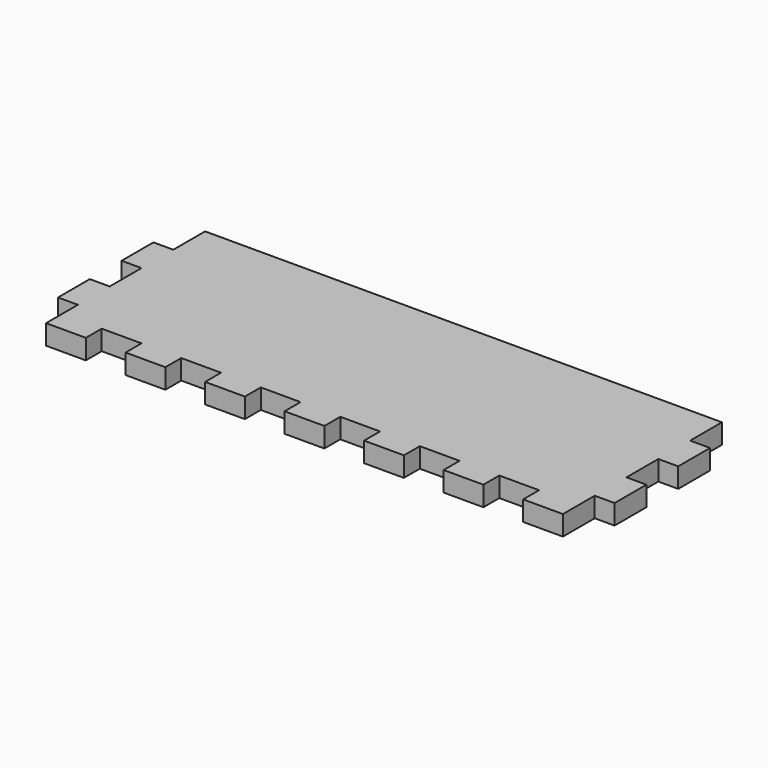
from build123d import *

# Parameters (mm, degrees)
F1_DEPTH = 6.35


with BuildPart() as f1:
    # F0 (on Top) → F1 (new body)
    with BuildSketch(Plane.XY):
        Polygon((171.45, 0), (6.35, 0), (6.35, -12.7), (0, -12.7), (0, -25.4), (6.35, -25.4), (6.35, -38.1), (0, -38.1), (0, -50.8), (6.35, -50.8), (6.35, -63.5), (19.05, -63.5), (19.05, -57.15), (31.75, -57.15), (31.75, -63.5), (44.45, -63.5), (44.45, -57.15), (57.15, -57.15), (57.15, -63.5), (69.85, -63.5), (69.85, -57.15), (82.55, -57.15), (82.55, -63.5), (95.25, -63.5), (95.25, -57.15), (107.95, -57.15), (107.95, -63.5), (120.65, -63.5), (120.65, -57.15), (133.35, -57.15), (133.35, -63.5), (146.05, -63.5), (146.05, -57.15), (158.75, -57.15), (158.75, -63.5), (171.45, -63.5), (171.45, -50.8), (177.8, -50.8), (177.8, -38.1), (171.45, -38.1), (171.45, -25.4), (177.8, -25.4), (177.8, -12.7), (171.45, -12.7), align=None)
    extrude(amount=F1_DEPTH)


solid = f1.part
